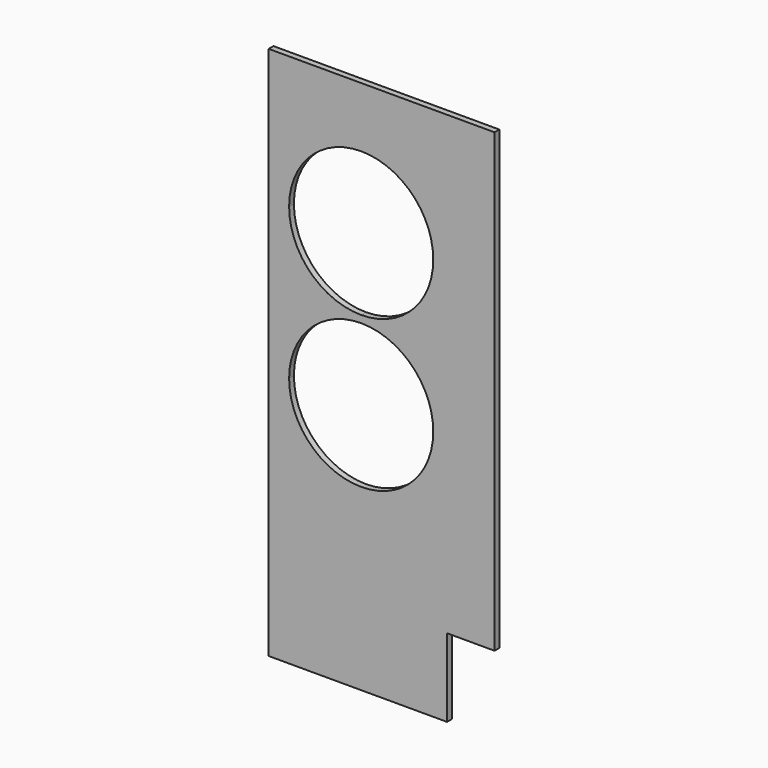
from build123d import *

# Parameters (mm, degrees)
F1_DEPTH = 5
F3_DEPTH = 5.001


with BuildPart() as f1:
    # F0 (on Front) → F1 (new body)
    with BuildSketch(Plane.XZ):
        Polygon((-267.89507, 257.257965), (-455.89507, 257.257965), (-455.89507, -187.742035), (-307.39507, -187.742035), (-307.39507, -122.742035), (-267.89507, -122.742035), align=None)
    extrude(amount=F1_DEPTH)

    # F2 (on face) → F3 (cut, through all)
    with BuildSketch(Plane.XZ.offset(5)):
        with BuildLine():
            ThreePointArc((-378.89507, 81.257965), (-421.321476, 63.684372), (-438.89507, 21.257965))
            ThreePointArc((-438.89507, 21.257965), (-378.89507, -38.742035), (-318.89507, 21.257965))
            ThreePointArc((-318.89507, 21.257965), (-336.468663, 63.684372), (-378.89507, 81.257965))
        make_face()
        with BuildLine():
            ThreePointArc((-318.89507, 147.257965), (-336.468663, 189.684372), (-378.89507, 207.257965))
            Line((-378.89507, 207.257965), (-378.89507, 147.257965))
            Line((-378.89507, 147.257965), (-378.89507, 87.257965))
            ThreePointArc((-378.89507, 87.257965), (-336.468663, 104.831558), (-318.89507, 147.257965))
        make_face()
        with BuildLine():
            Line((-378.89507, 147.257965), (-438.89507, 147.257965))
            ThreePointArc((-438.89507, 147.257965), (-421.321477, 104.831558), (-378.89507, 87.257965))
            Line((-378.89507, 87.257965), (-378.89507, 147.257965))
        make_face()
        with BuildLine():
            Line((-378.89507, 147.257965), (-378.89507, 207.257965))
            ThreePointArc((-378.89507, 207.257965), (-421.321477, 189.684372), (-438.89507, 147.257965))
            Line((-438.89507, 147.257965), (-378.89507, 147.257965))
        make_face()
    extrude(amount=-F3_DEPTH, mode=Mode.SUBTRACT)


solid = f1.part
